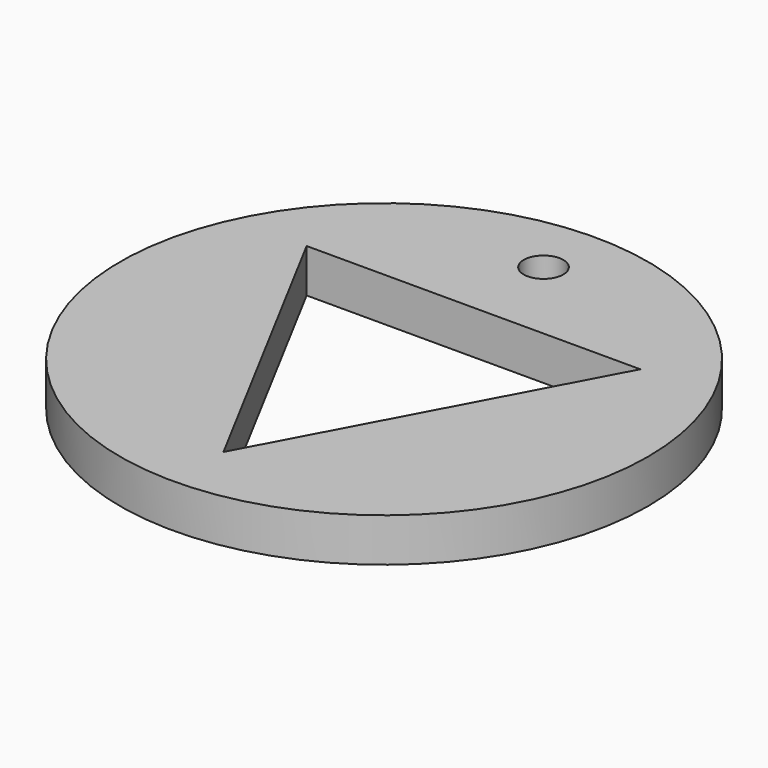
from build123d import *

# Parameters (mm, degrees)
CYLINDER_R      = 20
CYLINDER_DEPTH  = 3.3
SKETCH_R        = 1.5
POCKET_DEPTH    = 3.301
POCKET001_DEPTH = 3.301


with BuildPart() as part:
    # Cylinder → Cylinder (new body)
    with BuildSketch(Plane.XY):
        Circle(CYLINDER_R)
    extrude(amount=CYLINDER_DEPTH)

    # Sketch → Pocket (cut, through all)
    with BuildSketch(Plane.XY.offset(3.3)):
        with Locations((0, 15.1)):
            Circle(SKETCH_R)
    extrude(amount=-POCKET_DEPTH, mode=Mode.SUBTRACT)

    # Sketch001 → Pocket001 (cut, through all)
    with BuildSketch(Plane(origin=(0, 0, 0), x_dir=(1, 0, 0), z_dir=(0, 0, -1))):
        Polygon((12.641277, -8.466407), (-12.641277, -8.466407), (0.000337, 15.21453), align=None)
    extrude(amount=-POCKET001_DEPTH, mode=Mode.SUBTRACT)


solid = part.part
